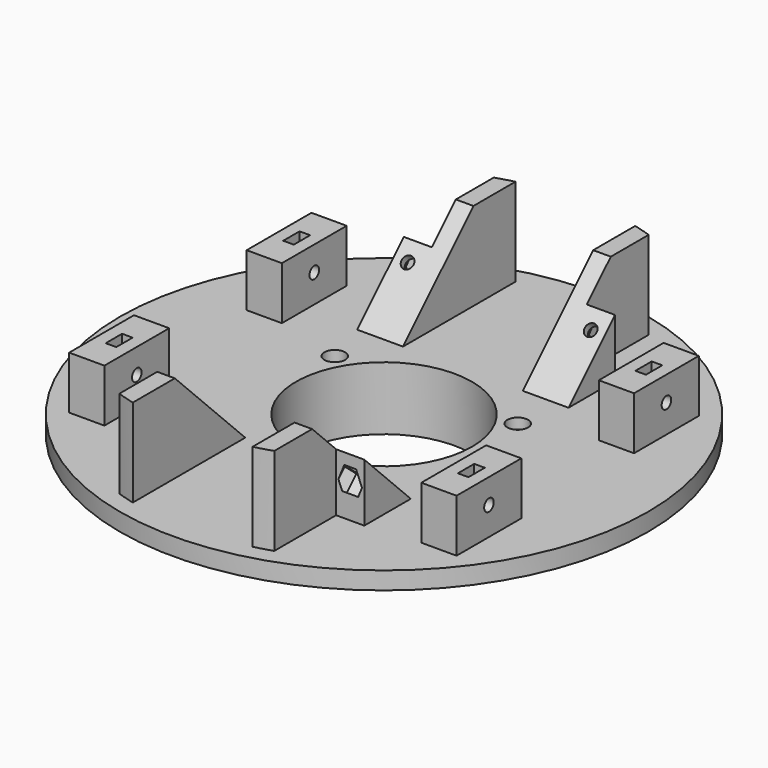
from build123d import *

# Parameters (mm, degrees)
SKETCH001_W                   = 10
SKETCH001_H                   = 23
PAD_DEPTH                     = 15
SKETCH002_R                   = 1.7
POCKET_DEPTH                  = 559.367976
POCKET001_DEPTH               = 1.5
SKETCH001_MIRRORED_2_W        = 10
SKETCH001_MIRRORED_2_H        = 23
PAD_MIRRORED_2_DEPTH          = 15
SKETCH002_MIRRORED_2_R        = 1.7
POCKET_MIRRORED_2_DEPTH       = 559.367976
POCKET001_MIRRORED_2_DEPTH    = 1.5
SKETCH004_R                   = 1.7
POCKET002_DEPTH               = 447.367976
SKETCH005_R                   = 2.95
POCKET003_DEPTH               = 3
POLARPATTERN_COUNT            = 3
PAD001_DEPTH                  = 25
POCKET004_DEPTH               = 13
SKETCH008_R                   = 1.7
POCKET005_DEPTH               = 10
POCKET006_DEPTH               = 5
PAD001_MIRRORED002_2_DEPTH    = 25
POCKET004_MIRRORED002_2_DEPTH = 13
SKETCH008_MIRRORED002_2_R     = 1.7
POCKET005_MIRRORED002_2_DEPTH = 10
POCKET006_MIRRORED002_2_DEPTH = 5


with BuildPart() as part:
    # Sketch → Revolution (revolve)
    with BuildSketch(Plane.XZ):
        Polygon((25, 0), (25, 18), (75, 18), (75, 13), (47, 13), (47, 6), (35, 6), (35, 0), align=None)
    revolve(axis=Axis((0, 0, 0), (0, 0, 1)))

    # Sketch001 (on Face2 of Revolution) → Pad (new body)
    with BuildSketch(Plane(origin=(0, 0, 18), x_dir=(-1, 0, 0), z_dir=(0, 0, 1))):
        with Locations((-50, -31.5)):
            Rectangle(SKETCH001_W, SKETCH001_H)
    pad = extrude(amount=PAD_DEPTH)

    # Sketch002 (on Face8 of Pad) → Pocket (cut, through all)
    with BuildSketch(Plane(origin=(55, 0, 0), x_dir=(0, 0, 1), z_dir=(1, 0, 0))):
        with Locations((26, -31.5)):
            Circle(SKETCH002_R)
    pocket = extrude(amount=-POCKET_DEPTH, mode=Mode.SUBTRACT)

    # Sketch003 (on DatumPlane) → Pocket001 (cut, symmetric)
    with BuildSketch(Plane(origin=(50, 0, 0), x_dir=(0, 0, 1), z_dir=(1, 0, 0))):
        Polygon((24.325, -28.598815), (22.65, -31.5), (24.325, -34.401185), (34.325, -34.401185), (34.325, -28.598815), align=None)
    pocket001 = extrude(amount=POCKET001_DEPTH, both=True, mode=Mode.SUBTRACT)

    # Sketch001 Mirrored 2 → Pad Mirrored 2 (add)
    with BuildSketch(Plane(origin=(0, 0, 18), x_dir=(-1, 0, 0), z_dir=(0, 0, -1))):
        with Locations((-50, -31.5)):
            Rectangle(SKETCH001_MIRRORED_2_W, SKETCH001_MIRRORED_2_H)
    pad_mirrored_2 = extrude(amount=-PAD_MIRRORED_2_DEPTH)

    # Sketch002 Mirrored 2 → Pocket Mirrored 2 (cut, through all)
    with BuildSketch(Plane.ZY.offset(-55)):
        with Locations((26, -31.5)):
            Circle(SKETCH002_MIRRORED_2_R)
    pocket_mirrored_2 = extrude(amount=POCKET_MIRRORED_2_DEPTH, mode=Mode.SUBTRACT)

    # Sketch003 Mirrored 2 → Pocket001 Mirrored 2 (cut, symmetric)
    with BuildSketch(Plane.ZY.offset(-50)):
        Polygon((24.325, -28.598815), (22.65, -31.5), (24.325, -34.401185), (34.325, -34.401185), (34.325, -28.598815), align=None)
    pocket001_mirrored_2 = extrude(amount=-POCKET001_MIRRORED_2_DEPTH, both=True, mode=Mode.SUBTRACT)

    # Mirrored001: Pad, Pocket, Pocket001, Pad Mirrored 2, Pocket Mirrored 2, Pocket001 Mirrored 2 across YZ
    add(pad.mirror(Plane.YZ))
    add(pocket.mirror(Plane.YZ), mode=Mode.SUBTRACT)
    add(pocket001.mirror(Plane.YZ), mode=Mode.SUBTRACT)
    add(pad_mirrored_2.mirror(Plane.YZ))
    add(pocket_mirrored_2.mirror(Plane.YZ), mode=Mode.SUBTRACT)
    add(pocket001_mirrored_2.mirror(Plane.YZ), mode=Mode.SUBTRACT)

    # Sketch004 (on Face3 of MultiTransform) → Pocket002 (cut, through all)
    with BuildSketch(Plane(origin=(0, 0, 18), x_dir=(-1, 0, 0), z_dir=(0, 0, 1))):
        with Locations((0, 30)):
            Circle(SKETCH004_R)
    pocket002 = extrude(amount=-POCKET002_DEPTH, mode=Mode.SUBTRACT)

    # Sketch005 (on Face3 of Pocket002) → Pocket003 (cut)
    with BuildSketch(Plane(origin=(0, 0, 18), x_dir=(-1, 0, 0), z_dir=(0, 0, 1))):
        with Locations((0, 30)):
            Circle(SKETCH005_R)
    pocket003 = extrude(amount=-POCKET003_DEPTH, mode=Mode.SUBTRACT)

    # PolarPattern: Pocket003, Pocket002 ×3 about axis
    polarpattern_axis = Axis((0, 0, 18), (0, 0, 1))
    for i in range(1, POLARPATTERN_COUNT):
        add(pocket003.rotate(polarpattern_axis, i * 360 / POLARPATTERN_COUNT), mode=Mode.SUBTRACT)
        add(pocket002.rotate(polarpattern_axis, i * 360 / POLARPATTERN_COUNT), mode=Mode.SUBTRACT)

    # Sketch006 (on Face3 of PolarPattern) → Pad001 (join)
    with BuildSketch(Plane(origin=(0, 0, 18), x_dir=(-1, 0, 0), z_dir=(0, 0, 1))):
        with BuildLine():
            Line((22, 66.452991), (22, 44.5))
            Line((22, 44.5), (30, 44.5))
            Line((30, 44.5), (30, 28))
            Line((30, 28), (17, 28))
            Line((17, 28), (17, 67.904344))
            ThreePointArc((22, 66.452991), (19.513498, 67.225169), (17, 67.904344))
        make_face()
    pad001 = extrude(amount=PAD001_DEPTH)

    # Sketch007 (on Face29 of Pad001) → Pocket004 (cut)
    with BuildSketch(Plane(origin=(-17, 0, 0), x_dir=(0, 0, 1), z_dir=(1, 0, 0))):
        Polygon((18, 28), (63, 73), (63, 28), align=None)
    pocket004 = extrude(amount=-POCKET004_DEPTH, mode=Mode.SUBTRACT)

    # Sketch008 (on Face30 of Pocket004) → Pocket005 (cut)
    with BuildSketch(Plane(origin=(0, -5, -5), x_dir=(1, 0, 0), z_dir=(0, 0.707107, 0.707107))):
        with Locations((-26, -50.726912)):
            Circle(SKETCH008_R)
    pocket005 = extrude(amount=-POCKET005_DEPTH, mode=Mode.SUBTRACT)

    # Sketch009 (on DatumPlane) → Pocket006 (cut)
    with BuildSketch(Plane(origin=(0, -6.414214, -6.414214), x_dir=(1, 0, 0), z_dir=(0, 0.707107, 0.707107))):
        Polygon((-24.325, -53.628097), (-22.65, -50.726912), (-24.325, -47.825727), (-27.675, -47.825727), (-29.35, -50.726912), (-27.675, -53.628097), align=None)
    pocket006 = extrude(amount=-POCKET006_DEPTH, mode=Mode.SUBTRACT)

    # Sketch006 Mirrored002 2 → Pad001 Mirrored002 2 (add)
    with BuildSketch(Plane(origin=(0, 0, 18), x_dir=(1, 0, 0), z_dir=(0, 0, -1))):
        with BuildLine():
            Line((22, 66.452991), (22, 44.5))
            Line((22, 44.5), (30, 44.5))
            Line((30, 44.5), (30, 28))
            Line((30, 28), (17, 28))
            Line((17, 28), (17, 67.904344))
            ThreePointArc((22, 66.452991), (19.513498, 67.225169), (17, 67.904344))
        make_face()
    pad001_mirrored002_2 = extrude(amount=-PAD001_MIRRORED002_2_DEPTH)

    # Sketch007 Mirrored002 2 → Pocket004 Mirrored002 2 (cut)
    with BuildSketch(Plane(origin=(17, 0, 0), x_dir=(0, 0, 1), z_dir=(1, 0, 0))):
        Polygon((18, 28), (63, 73), (63, 28), align=None)
    pocket004_mirrored002_2 = extrude(amount=POCKET004_MIRRORED002_2_DEPTH, mode=Mode.SUBTRACT)

    # Sketch008 Mirrored002 2 → Pocket005 Mirrored002 2 (cut)
    with BuildSketch(Plane(origin=(0, -5, -5), x_dir=(-1, 0, 0), z_dir=(0, -0.707107, -0.707107))):
        with Locations((-26, -50.726912)):
            Circle(SKETCH008_MIRRORED002_2_R)
    pocket005_mirrored002_2 = extrude(amount=POCKET005_MIRRORED002_2_DEPTH, mode=Mode.SUBTRACT)

    # Sketch009 Mirrored002 2 → Pocket006 Mirrored002 2 (cut)
    with BuildSketch(Plane(origin=(0, -6.414214, -6.414214), x_dir=(-1, 0, 0), z_dir=(0, -0.707107, -0.707107))):
        Polygon((-24.325, -53.628097), (-22.65, -50.726912), (-24.325, -47.825727), (-27.675, -47.825727), (-29.35, -50.726912), (-27.675, -53.628097), align=None)
    pocket006_mirrored002_2 = extrude(amount=POCKET006_MIRRORED002_2_DEPTH, mode=Mode.SUBTRACT)

    # Mirrored003: Pad001, Pocket004, Pocket005, Pocket006, Pad001 Mirrored002 2, Pocket004 Mirrored002 2, Pocket005 Mirrored002 2, Pocket006 Mirrored002 2 across Sketch006 H_Axis
    add(pad001.mirror(Plane(origin=(0, 0, 18), x_dir=(0, 0, 1), z_dir=(0, -1, 0))))
    add(pocket004.mirror(Plane(origin=(0, 0, 18), x_dir=(0, 0, 1), z_dir=(0, -1, 0))), mode=Mode.SUBTRACT)
    add(pocket005.mirror(Plane(origin=(0, 0, 18), x_dir=(0, 0, 1), z_dir=(0, -1, 0))), mode=Mode.SUBTRACT)
    add(pocket006.mirror(Plane(origin=(0, 0, 18), x_dir=(0, 0, 1), z_dir=(0, -1, 0))), mode=Mode.SUBTRACT)
    add(pad001_mirrored002_2.mirror(Plane(origin=(0, 0, 18), x_dir=(0, 0, 1), z_dir=(0, -1, 0))))
    add(pocket004_mirrored002_2.mirror(Plane(origin=(0, 0, 18), x_dir=(0, 0, 1), z_dir=(0, -1, 0))), mode=Mode.SUBTRACT)
    add(pocket005_mirrored002_2.mirror(Plane(origin=(0, 0, 18), x_dir=(0, 0, 1), z_dir=(0, -1, 0))), mode=Mode.SUBTRACT)
    add(pocket006_mirrored002_2.mirror(Plane(origin=(0, 0, 18), x_dir=(0, 0, 1), z_dir=(0, -1, 0))), mode=Mode.SUBTRACT)


solid = part.part
